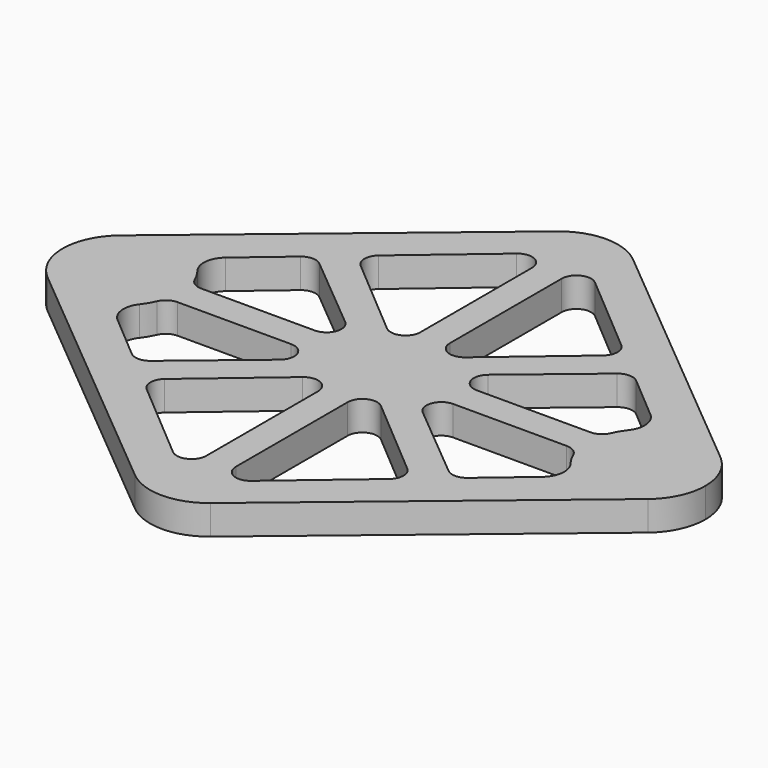
from build123d import *

# Parameters (mm, degrees)
F0_R     = 2.5
F1_DEPTH = 2.5


with BuildPart() as f1:
    # F0 (on Top) → F1 (new body)
    with BuildSketch(Plane.XY):
        with BuildLine():
            Line((-3.200922, 22.332565), (-25.390672, 3.841106))
            ThreePointArc((-25.390672, 3.841106), (-21.653839, 4.971197), (-18.243719, 3.070641))
            ThreePointArc((-18.243719, 3.070641), (-18.63819, 4.44548), (-17.972234, 5.711296))
            Line((-17.972234, 5.711296), (-14.210711, 8.909378))
            ThreePointArc((-14.210711, 8.909378), (-13.407208, 9.207037), (-12.600804, 8.917329))
            Line((-12.600804, 8.917329), (-6.052341, 3.460277))
            ThreePointArc((-6.052341, 3.460277), (-5.677232, 2.074468), (-6.852572, 1.25))
            Line((-6.852572, 1.25), (-16.461531, 1.25))
            ThreePointArc((-16.461531, 1.25), (-17.146184, 1.454175), (-17.607175, 2))
            ThreePointArc((-17.607175, 2), (-17.295219, 1.021548), (-17.18975, 0))
            ThreePointArc((-17.18975, 0), (-17.295219, -1.021548), (-17.607175, -2))
            ThreePointArc((-17.607175, -2), (-17.146184, -1.454175), (-16.461531, -1.25))
            Line((-16.461531, -1.25), (-6.852572, -1.25))
            ThreePointArc((-6.852572, -1.25), (-5.677232, -2.074468), (-6.052341, -3.460277))
            Line((-6.052341, -3.460277), (-12.600804, -8.917329))
            ThreePointArc((-12.600804, -8.917329), (-13.407208, -9.207037), (-14.210711, -8.909378))
            Line((-14.210711, -8.909378), (-17.972234, -5.711296))
            ThreePointArc((-17.972234, -5.711296), (-18.63819, -4.44548), (-18.243719, -3.070641))
            ThreePointArc((-18.243719, -3.070641), (-21.653839, -4.971197), (-25.390672, -3.841106))
            Line((-25.390672, -3.841106), (-3.200922, -22.332565))
            ThreePointArc((-3.200922, -22.332565), (0, -23.491459), (3.200922, -22.332565))
            Line((3.200922, -22.332565), (25.390672, -3.841106))
            ThreePointArc((25.390672, -3.841106), (21.653839, -4.971197), (18.243719, -3.070641))
            ThreePointArc((18.243719, -3.070641), (18.63819, -4.44548), (17.972234, -5.711296))
            Line((17.972234, -5.711296), (14.210711, -8.909378))
            ThreePointArc((14.210711, -8.909378), (13.407208, -9.207037), (12.600804, -8.917329))
            Line((12.600804, -8.917329), (6.052341, -3.460277))
            ThreePointArc((6.052341, -3.460277), (5.677232, -2.074468), (6.852572, -1.25))
            Line((6.852572, -1.25), (16.461531, -1.25))
            ThreePointArc((16.461531, -1.25), (17.146184, -1.454175), (17.607175, -2))
            ThreePointArc((17.607175, -2), (17.18975, 0), (17.607175, 2))
            ThreePointArc((17.607175, 2), (17.146184, 1.454175), (16.461531, 1.25))
            Line((16.461531, 1.25), (6.852572, 1.25))
            ThreePointArc((6.852572, 1.25), (5.677232, 2.074468), (6.052341, 3.460277))
            Line((6.052341, 3.460277), (12.600804, 8.917329))
            ThreePointArc((12.600804, 8.917329), (13.407208, 9.207037), (14.210711, 8.909378))
            Line((14.210711, 8.909378), (17.972234, 5.711296))
            ThreePointArc((17.972234, 5.711296), (18.63819, 4.44548), (18.243719, 3.070641))
            ThreePointArc((18.243719, 3.070641), (21.653839, 4.971197), (25.390672, 3.841106))
            Line((25.390672, 3.841106), (3.200922, 22.332565))
            ThreePointArc((3.200922, 22.332565), (0, 23.491459), (-3.200922, 22.332565))
        make_face()
        with BuildLine():
            Line((-10.259876, -10.363764), (-3.309676, -4.454638))
            ThreePointArc((-3.309676, -4.454638), (-1.975403, -4.272372), (-1.25, -5.406964))
            Line((-1.25, -5.406964), (-1.25, -17.225215))
            ThreePointArc((-1.25, -17.225215), (-1.975403, -18.359806), (-3.309676, -18.177541))
            Line((-3.309676, -18.177541), (-10.259876, -12.268415))
            ThreePointArc((-10.259876, -12.268415), (-10.7002, -11.316089), (-10.259876, -10.363764))
        make_face(mode=Mode.SUBTRACT)
        with BuildLine():
            ThreePointArc((1.25, -5.406964), (1.975403, -4.272372), (3.309676, -4.454638))
            Line((3.309676, -4.454638), (10.259876, -10.363764))
            ThreePointArc((10.259876, -10.363764), (10.7002, -11.316089), (10.259876, -12.268415))
            Line((10.259876, -12.268415), (3.309676, -18.177541))
            ThreePointArc((3.309676, -18.177541), (1.975403, -18.359806), (1.25, -17.225215))
            Line((1.25, -17.225215), (1.25, -5.406964))
        make_face(mode=Mode.SUBTRACT)
        with BuildLine():
            Line((-1.25, 17.225215), (-1.25, 5.406964))
            ThreePointArc((-1.25, 5.406964), (-1.975403, 4.272372), (-3.309676, 4.454638))
            Line((-3.309676, 4.454638), (-10.259876, 10.363764))
            ThreePointArc((-10.259876, 10.363764), (-10.7002, 11.316089), (-10.259876, 12.268415))
            Line((-10.259876, 12.268415), (-3.309676, 18.177541))
            ThreePointArc((-3.309676, 18.177541), (-1.975403, 18.359806), (-1.25, 17.225215))
        make_face(mode=Mode.SUBTRACT)
        with BuildLine():
            ThreePointArc((3.309676, 4.454638), (1.975403, 4.272372), (1.25, 5.406964))
            Line((1.25, 5.406964), (1.25, 17.225215))
            ThreePointArc((1.25, 17.225215), (1.975403, 18.359806), (3.309676, 18.177541))
            Line((3.309676, 18.177541), (10.259876, 12.268415))
            ThreePointArc((10.259876, 12.268415), (10.7002, 11.316089), (10.259876, 10.363764))
            Line((10.259876, 10.363764), (3.309676, 4.454638))
        make_face(mode=Mode.SUBTRACT)
        with BuildLine():
            ThreePointArc((-18.243719, 3.070641), (-21.653839, 4.971197), (-25.390672, 3.841106))
            ThreePointArc((-25.390672, 3.841106), (-27.18975, 0), (-25.390672, -3.841106))
            ThreePointArc((-25.390672, -3.841106), (-21.653839, -4.971197), (-18.243719, -3.070641))
            ThreePointArc((-18.243719, -3.070641), (-17.891977, -2.55522), (-17.607175, -2))
            ThreePointArc((-17.607175, -2), (-17.295219, -1.021548), (-17.18975, 0))
            ThreePointArc((-17.18975, 0), (-17.295219, 1.021548), (-17.607175, 2))
            ThreePointArc((-17.607175, 2), (-17.891977, 2.55522), (-18.243719, 3.070641))
        make_face()
        with Locations((-22.18975, 0)):
            Circle(F0_R, mode=Mode.SUBTRACT)
        with Locations((-22.18975, 0)):
            Circle(F0_R)
        with BuildLine():
            ThreePointArc((27.18975, 0), (26.717697, 2.120777), (25.390672, 3.841106))
            ThreePointArc((25.390672, 3.841106), (21.653839, 4.971197), (18.243719, 3.070641))
            ThreePointArc((18.243719, 3.070641), (17.891977, 2.55522), (17.607175, 2))
            ThreePointArc((17.607175, 2), (17.18975, 0), (17.607175, -2))
            ThreePointArc((17.607175, -2), (17.891977, -2.55522), (18.243719, -3.070641))
            ThreePointArc((18.243719, -3.070641), (21.653839, -4.971197), (25.390672, -3.841106))
            ThreePointArc((25.390672, -3.841106), (26.717697, -2.120777), (27.18975, 0))
        make_face()
        with Locations((22.18975, 0)):
            Circle(F0_R, mode=Mode.SUBTRACT)
        with Locations((22.18975, 0)):
            Circle(F0_R)
    extrude(amount=F1_DEPTH)


solid = f1.part
